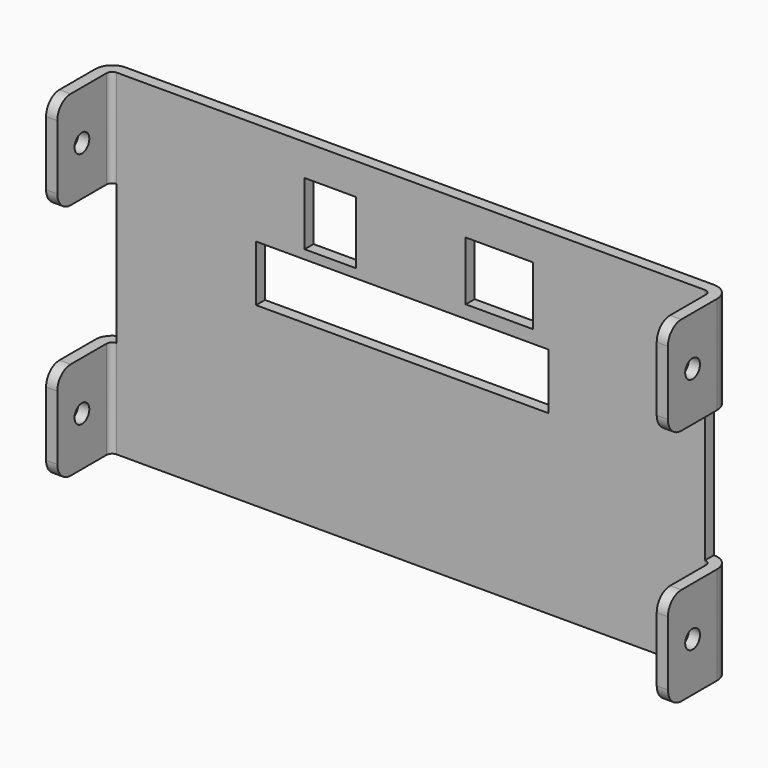
from build123d import *

# Parameters (mm, degrees)
F1_DEPTH = 30
F2_W     = 3
F2_H     = 25
F2_W_2   = 12
F2_H_2   = 10.5
F2_W_3   = 9.15
F2_H_3   = 11.2
F2_W_4   = 52.23
F2_H_4   = 10
F3_DEPTH = 14.001
F5_D     = 3.3
F6_R     = 3


with BuildPart() as f1:
    # F0 (on Top) → F1 (new body, symmetric)
    with BuildSketch(Plane.XY):
        with BuildLine():
            Line((-52.5, 0), (52.5, 0))
            ThreePointArc((52.5, 0), (53.2071067812, -0.2928932188), (53.5, -1))
            Line((53.5, -1), (53.5, -12))
            Line((53.5, -12), (55.5, -12))
            Line((55.5, -12), (55.5, -1))
            ThreePointArc((55.5, -1), (54.6213203436, 1.1213203436), (52.5, 2))
            Line((52.5, 2), (-52.5, 2))
            ThreePointArc((-52.5, 2), (-54.6213203436, 1.1213203436), (-55.5, -1))
            Line((-55.5, -1), (-55.5, -12))
            Line((-55.5, -12), (-53.5, -12))
            Line((-53.5, -12), (-53.5, -1))
            ThreePointArc((-53.5, -1), (-53.2071067812, -0.2928932188), (-52.5, 0))
        make_face()
    extrude(amount=F1_DEPTH, both=True)

    # F2 (on face) → F3 (cut, through all)
    with BuildSketch(Plane(origin=(0, 2, 0), x_dir=(-1, 0, 0), z_dir=(0, 1, 0))):
        with Locations((-54, 0)):
            Rectangle(F2_W, F2_H)
        with Locations((54, 0)):
            Rectangle(F2_W, F2_H)
        with Locations((-15.81, 19.1)):
            Rectangle(F2_W_2, F2_H_2)
        with Locations((14.385, 18.75)):
            Rectangle(F2_W_3, F2_H_3)
        with Locations((1.505, 6.55)):
            Rectangle(F2_W_4, F2_H_4)
    extrude(amount=-F3_DEPTH, mode=Mode.SUBTRACT)

    # F5 (through all)
    with Locations(Plane.YZ.offset(55.5)):
        with Locations((-6.5, 21.25), (-6.5, -21.25)):
            Hole(F5_D / 2)

    # F6
    f6_edges = [f1.edges().sort_by_distance(p)[0] for p in [
        (-54.5, -12, 30),
        (-54.5, -12, 12.5),
        (-54.5, -12, -12.5),
        (-54.5, -12, -30),
        (54.5, -12, 30),
        (54.5, -12, 12.5),
        (54.5, -12, -12.5),
        (54.5, -12, -30),
    ]]
    fillet(f6_edges, radius=F6_R)


solid = f1.part
